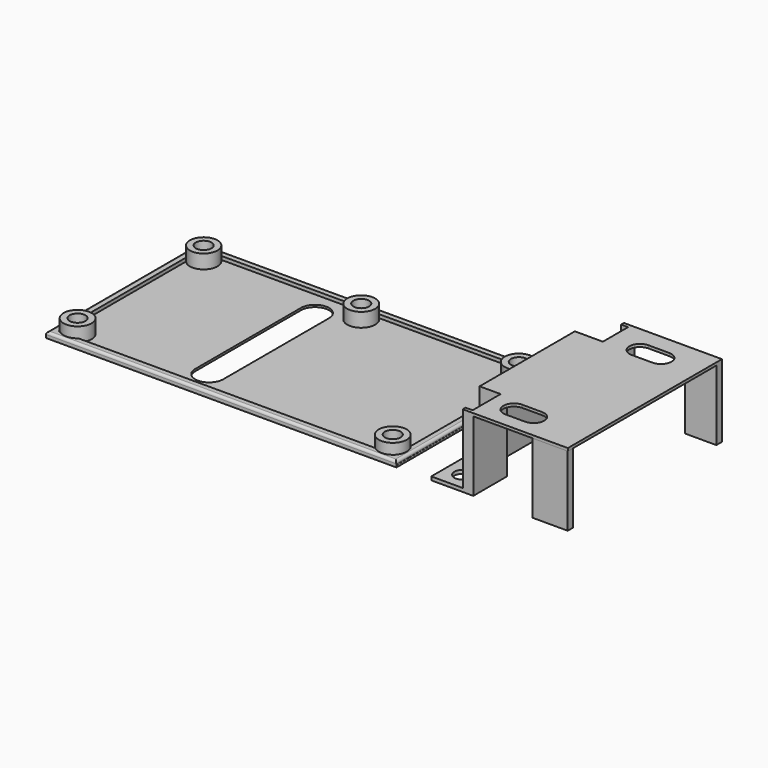
from build123d import *

# Parameters (mm, degrees)
SKETCH_W        = 100.042262
SKETCH_H        = 55
PAD_DEPTH       = 0.6
SKETCH001_R     = 3.94116
SKETCH001_R_2   = 4
PAD001_DEPTH    = 4
POCKET_DEPTH    = 5
SKETCH003_W     = 100
SKETCH003_H     = 55
SKETCH003_W_2   = 96
SKETCH003_H_2   = 51
PAD002_DEPTH    = 1
FILLET_R        = 0.7
SKETCH004_R     = 2.25
HOLE_DEPTH      = 25
SKETCH005_R     = 2.427658
SKETCH005_R_2   = 2.393066
PAD003_DEPTH    = 1
PAD004_DEPTH    = 19
PAD005_DEPTH    = 0.8
SKETCH008_W     = 10
SKETCH008_H     = 1.955231
SKETCH008_W_2   = 9
SKETCH008_H_2   = 2
PAD006_DEPTH    = 20
POCKET001_DEPTH = 5


with BuildPart() as insulator:
    # Sketch → Pad (new body)
    with BuildSketch(Plane.XY):
        with Locations((50.021131, 27.5)):
            Rectangle(SKETCH_W, SKETCH_H)
    extrude(amount=PAD_DEPTH)

    # Sketch001 (on Face6 of Pad) → Pad001 (join)
    with BuildSketch(Plane.XY.offset(0.6)):
        with Locations((5, 50)):
            Circle(SKETCH001_R)
        with Locations((95, 50)):
            Circle(SKETCH001_R_2)
        with Locations((5, 5)):
            Circle(SKETCH001_R_2)
        with Locations((95, 5)):
            Circle(SKETCH001_R_2)
        with Locations((50, 50)):
            Circle(SKETCH001_R_2)
    extrude(amount=PAD001_DEPTH)

    # Sketch002 (on Face5 of Pad001) → Pocket (cut)
    with BuildSketch(Plane.XY.offset(0.6)):
        with BuildLine():
            ThreePointArc((44, 46), (40, 50), (36, 46))
            Line((36, 46), (36, 8.221905))
            ThreePointArc((36, 8.221905), (40, 4.221905), (44, 8.221905))
            Line((44, 46), (44, 8.221905))
        make_face()
    extrude(amount=-POCKET_DEPTH, mode=Mode.SUBTRACT)

    # Sketch003 (on Face5 of Pocket) → Pad002 (join)
    with BuildSketch(Plane.XY.offset(0.6)):
        with Locations((50, 27.5)):
            Rectangle(SKETCH003_W, SKETCH003_H)
        with Locations((50, 27.5)):
            Rectangle(SKETCH003_W_2, SKETCH003_H_2, mode=Mode.SUBTRACT)
    extrude(amount=PAD002_DEPTH)

    # Fillet
    fillet_edges = [insulator.edges().sort_by_distance(p)[0] for p in [
        (50, 55, 1.6),
        (0, 27.5, 1.6),
        (50, 0, 1.6),
        (100, 27.5, 1.6),
    ]]
    fillet(fillet_edges, radius=FILLET_R)

    # Sketch004 (on Face46 of Fillet) → Hole (cut)
    with BuildSketch(Plane.XY.offset(4.6)):
        with Locations((5, 50)):
            Circle(SKETCH004_R)
        with Locations((50, 50)):
            Circle(SKETCH004_R)
        with Locations((5, 5)):
            Circle(SKETCH004_R)
        with Locations((95, 50)):
            Circle(SKETCH004_R)
        with Locations((95, 5)):
            Circle(SKETCH004_R)
    extrude(amount=-HOLE_DEPTH, mode=Mode.SUBTRACT)


with BuildPart() as body001:
    # Sketch005 → Pad003 (new body)
    with BuildSketch(Plane.XY):
        Polygon((110, 55), (110, 0), (122, 0), (122, 12), (116, 12), (116, 44), (124, 44), (124, 55), align=None)
        with Locations((115, 50)):
            Circle(SKETCH005_R, mode=Mode.SUBTRACT)
        with Locations((115, 5)):
            Circle(SKETCH005_R_2, mode=Mode.SUBTRACT)
    extrude(amount=PAD003_DEPTH)

    # Sketch006 (on Face12 of Pad003) → Pad004 (join)
    with BuildSketch(Plane.XY.offset(1)):
        Polygon((121, 55), (121, 54), (123, 54), (123, 45), (115, 45), (115, 11), (121, 11), (121, 1), (119, 1), (119, 0), (122, 0), (122, 12), (116, 12), (116, 44), (124, 44), (124, 55), align=None)
    extrude(amount=PAD004_DEPTH)

    # Sketch007 (on Face25 of Pad004) → Pad005 (join)
    with BuildSketch(Plane.XY.offset(20)):
        Polygon((121, 55), (121, 54), (123, 54), (123, 45), (115, 45), (115, 11), (121, 11), (121, 1), (119, 1), (119, 0), (149, 0), (149, 55), align=None)
    extrude(amount=PAD005_DEPTH)

    # Sketch008 (on Face40 of Pad005) → Pad006 (join)
    with BuildSketch(Plane(origin=(0, 0, 20), x_dir=(1, 0, 0), z_dir=(0, 0, -1))):
        with Locations((143.971664, -0.977615)):
            Rectangle(SKETCH008_W, SKETCH008_H)
        with Locations((144.5, -54)):
            Rectangle(SKETCH008_W_2, SKETCH008_H_2)
    extrude(amount=PAD006_DEPTH)

    # Sketch009 (on Face43 of Pad006) → Pocket001 (cut)
    with BuildSketch(Plane.XY.offset(20.8)):
        with BuildLine():
            ThreePointArc((132, 50), (129, 47), (132, 44))
            Line((132, 44), (138, 44))
            ThreePointArc((138, 44), (141, 47), (138, 50))
            Line((132, 50), (138, 50))
        make_face()
        with BuildLine():
            ThreePointArc((128.000001, 10), (125.000001, 7), (128.000001, 4))
            Line((128.000001, 4), (133.636949, 4))
            ThreePointArc((133.636949, 4), (136.636949, 7), (133.636949, 10))
            Line((128.000001, 10), (133.636949, 10))
        make_face()
    extrude(amount=-POCKET001_DEPTH, mode=Mode.SUBTRACT)


solid = Compound([insulator.part, body001.part])
